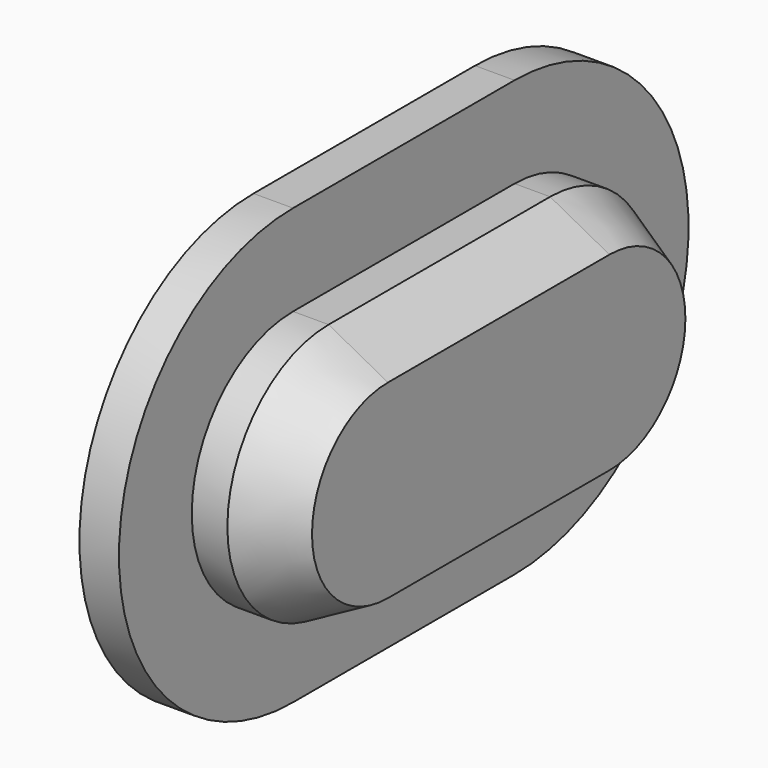
from build123d import *

# Parameters (mm, degrees)
EXTRUDE008_DEPTH = 1
EXTRUDE007_DEPTH = 2.4
CHAMFER004_SIZE2 = 0.8
CHAMFER004_SIZE  = 1.5


with BuildPart() as extrude008:
    # Sketch009 (on Sketch) → Extrude008 (new body)
    with BuildSketch(Plane(origin=(-47.25, 0, 0), x_dir=(0, -1, 0), z_dir=(-1, 0, 0))):
        with BuildLine():
            ThreePointArc((0.7500000002, 12.5), (-4.7499999998, 7), (0.7500000002, 1.5))
            Line((0.7500000002, 1.5), (7.7500000002, 1.5))
            ThreePointArc((7.7500000002, 1.5), (13.2500000002, 7), (7.7500000002, 12.5))
            Line((7.7500000002, 12.5), (0.7500000002, 12.5))
        make_face()
    extrude(amount=EXTRUDE008_DEPTH)


with BuildPart() as deckel_usb:
    # Sketch008 (on Sketch) → Extrude007 (new body)
    with BuildSketch(Plane(origin=(-47.25, 0, 0), x_dir=(0, -1, 0), z_dir=(-1, 0, 0))):
        with BuildLine():
            ThreePointArc((0.7500000002, 10.2), (-2.4499999998, 7), (0.7500000002, 3.8))
            Line((0.7500000002, 3.8), (7.7500000002, 3.8))
            ThreePointArc((7.7500000002, 3.8), (10.9500000002, 7), (7.7500000002, 10.2))
            Line((7.7500000002, 10.2), (0.7500000002, 10.2))
        make_face()
    extrude(amount=-EXTRUDE007_DEPTH)

    # Chamfer004
    chamfer004_edges = [deckel_usb.edges().sort_by_distance(p)[0] for p in [
        (-44.85, -4.25, 3.8),
    ]]
    chamfer004_side = deckel_usb.faces().sort_by_distance((-46.05, -4.25, 3.8))[0]
    chamfer(chamfer004_edges, length=CHAMFER004_SIZE, length2=CHAMFER004_SIZE2, reference=chamfer004_side)

    # Connect001: union Extrude008
    add(extrude008.part)


solid = deckel_usb.part
